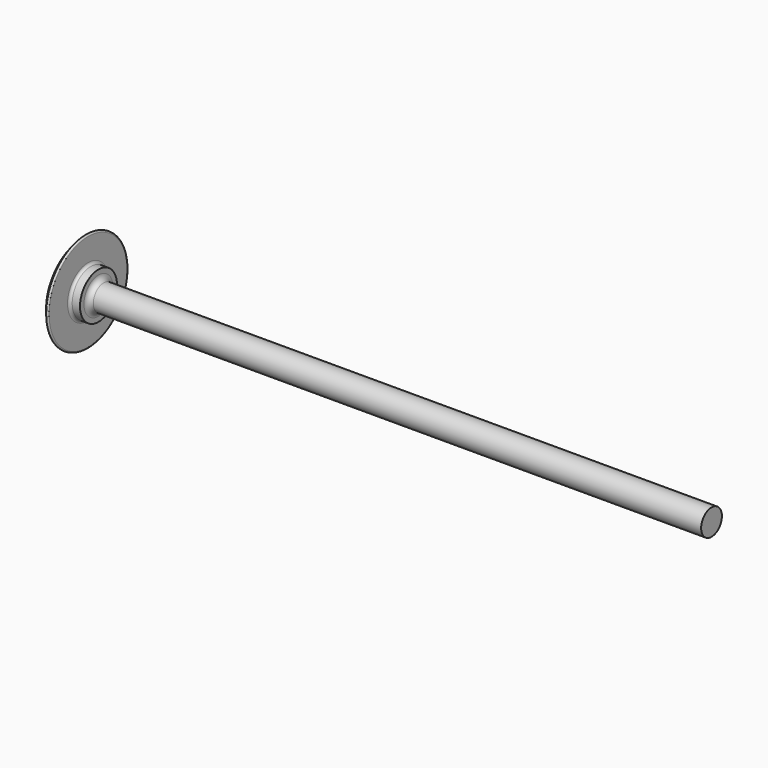
from build123d import *

# Parameters (mm, degrees)
F2_R     = 0.25
F3_R     = 0.5
F4_R     = 1
F6_DEPTH = 4


with BuildPart() as f1:
    # F0 (on Top) → F1 (revolve)
    with BuildSketch(Plane.XY):
        with BuildLine():
            Line((0, 0), (124.142136, 0))
            Line((124.142136, 0), (124.142136, 2.5))
            Line((124.142136, 2.5), (6.142136, 2.5))
            Line((6.142136, 2.5), (6.142136, 4.45))
            Line((6.142136, 4.45), (4.142136, 4.45))
            Line((4.142136, 4.45), (4.142136, 10))
            ThreePointArc((4.142136, 10), (1.076506, 5.411961), (0, 0))
        make_face()
    revolve(axis=Axis((20.770491, 0, 0), (1, 0, 0)))

    # F2
    f2_edges = [f1.edges().sort_by_distance(p)[0] for p in [
        (4.142136, -10, 0),
    ]]
    fillet(f2_edges, radius=F2_R)

    # F3
    f3_edges = [f1.edges().sort_by_distance(p)[0] for p in [
        (4.142136, -4.45, 0),
    ]]
    fillet(f3_edges, radius=F3_R)

    # F4
    f4_edges = [f1.edges().sort_by_distance(p)[0] for p in [
        (6.142136, -2.5, 0),
    ]]
    fillet(f4_edges, radius=F4_R)

    # F5 (on Right) → F6 (cut)
    with BuildSketch(Plane.YZ):
        Polygon((-2.886751, 0), (-1.443376, -2.5), (1.443376, -2.5), (2.886751, 0), (1.443376, 2.5), (-1.443376, 2.5), align=None)
    extrude(amount=F6_DEPTH, mode=Mode.SUBTRACT)


solid = f1.part
